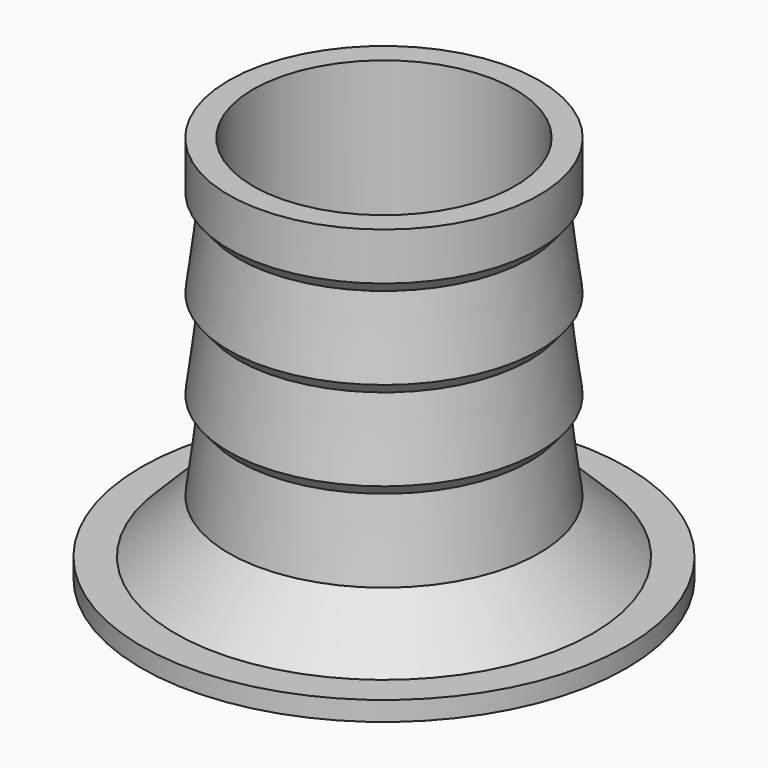
from build123d import *

# Parameters (mm, degrees)
F2_SIZE = 5


with BuildPart() as f1:
    # F0 (on Front) → F1 (revolve)
    with BuildSketch(Plane.XZ):
        Polygon((-25, 0), (-13.5, 0), (-13.5, 40), (-16, 40), (-16, 35.1), (-15, 33.9), (-16, 25.9), (-15, 24.7), (-16, 16.7), (-15, 15.5), (-16, 7.5), (-21.5, 2), (-25, 2), align=None)
    revolve(axis=Axis((0, 0, -0.481866), (0, 0, -1)))

    # F2
    f2_edges = [f1.edges().sort_by_distance(p)[0] for p in [
        (13.5, 0, 0),
    ]]
    chamfer(f2_edges, length=F2_SIZE)


solid = f1.part
